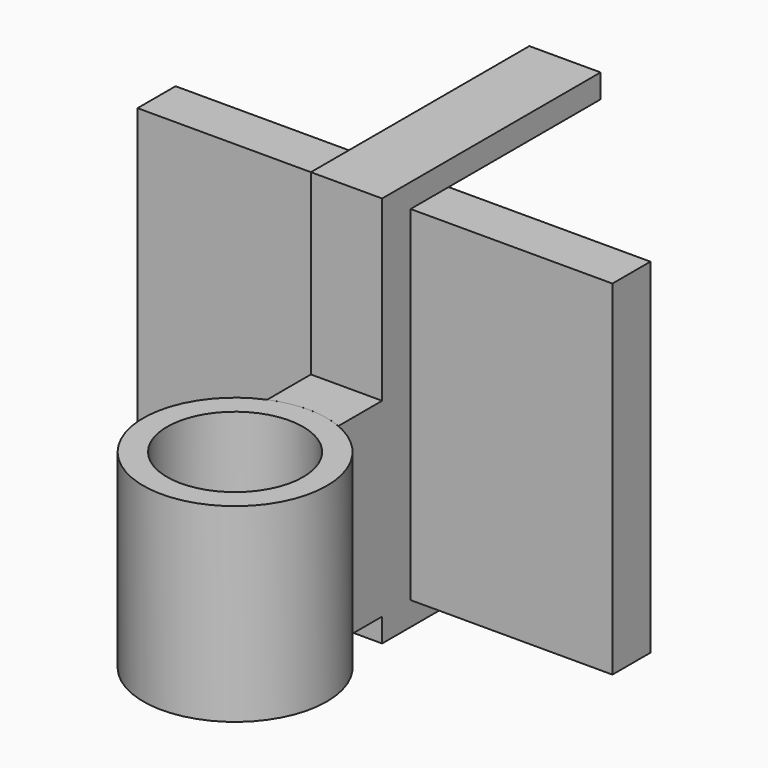
from build123d import *

# Parameters (mm, degrees)
BOX_W            = 200
BOX_H            = 20
BOX_DEPTH        = 145
TUBE_R           = 38.64789
TUBE_R_2         = 28.64789
TUBE_DEPTH       = 80
TUBE001_R        = 38.64789
TUBE001_R_2      = 28.64789
TUBE001_DEPTH    = 80
SKETCH001_W      = 30
SKETCH001_H      = 10
EXTRUDE001_DEPTH = 100
SKETCH002_W      = 30
SKETCH002_H      = 10
EXTRUDE002_DEPTH = 100
SKETCH003_W      = 30
SKETCH003_H      = 80
EXTRUDE003_DEPTH = 25
EXTRUDE_DEPTH    = 15


with BuildPart() as cube:
    # Box → Box (new body)
    with BuildSketch(Plane.XY):
        with Locations((100, 10)):
            Rectangle(BOX_W, BOX_H)
    extrude(amount=BOX_DEPTH)


with BuildPart() as tube:
    # Tube → Tube (new body)
    with BuildSketch(Plane(origin=(100, -73.65, 0), x_dir=(1, 0, 0), z_dir=(0, 0, 1))):
        Circle(TUBE_R)
        Circle(TUBE_R_2, mode=Mode.SUBTRACT)
    extrude(amount=TUBE_DEPTH)


with BuildPart() as tube001:
    # Tube001 → Tube001 (new body)
    with BuildSketch(Plane(origin=(100, -73.65, 0), x_dir=(1, 0, 0), z_dir=(0, 0, 1))):
        Circle(TUBE001_R)
        Circle(TUBE001_R_2, mode=Mode.SUBTRACT)
    extrude(amount=TUBE001_DEPTH)


with BuildPart() as extrude001:
    # Sketch001 (on Face9 of Extrude) → Extrude001 (new body)
    with BuildSketch(Plane(origin=(0, 0, 0), x_dir=(-1, 0, 0), z_dir=(0, 1, 0))):
        with Locations((-100, 150)):
            Rectangle(SKETCH001_W, SKETCH001_H)
    extrude(amount=EXTRUDE001_DEPTH)


with BuildPart() as extrude002:
    # Sketch002 (on Face9 of Extrude) → Extrude002 (new body)
    with BuildSketch(Plane(origin=(0, 0, 0), x_dir=(-1, 0, 0), z_dir=(0, 1, 0))):
        with Locations((-100, -5)):
            Rectangle(SKETCH002_W, SKETCH002_H)
    extrude(amount=EXTRUDE002_DEPTH)


with BuildPart() as extrude003:
    # Sketch003 (on Face10 of Extrude) → Extrude003 (new body)
    with BuildSketch(Plane.XZ.offset(15)):
        with Locations((100, 40)):
            Rectangle(SKETCH003_W, SKETCH003_H)
    extrude(amount=EXTRUDE003_DEPTH)


with BuildPart() as hanger:
    # Sketch (on Face3 of Box) → Extrude (new body)
    with BuildSketch(Plane.XZ):
        Polygon((85, 0), (85, 145), (85, 155), (115, 155), (115, 145), (115, 0), (115, -10), (85, -10), align=None)
    extrude(amount=EXTRUDE_DEPTH)

    # Fusion: union Extrude001, Extrude002, Extrude003
    add(extrude001.part)
    add(extrude002.part)
    add(extrude003.part)

    # Cut: cut Tube001
    add(tube001.part, mode=Mode.SUBTRACT)


solid = Compound([cube.part, tube.part, hanger.part])
